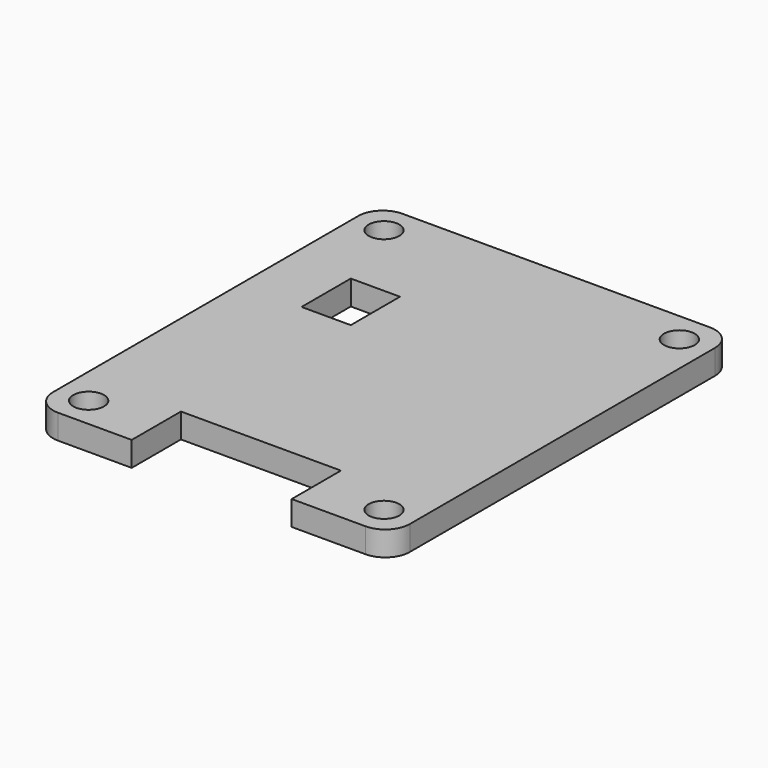
from build123d import *

# Parameters (mm, degrees)
F0_R     = 1.25
F1_DEPTH = 2
F2_R     = 2


with BuildPart() as f1:
    # F0 (on Top) → F1 (new body)
    with BuildSketch(Plane.XY):
        Polygon((9.5, 12.5), (9.5, -12.5), (6.5, -12.5), (6.5, -17.5), (14.5, -17.5), (14.5, 17.5), (-14.5, 17.5), (-14.5, -17.5), (-6.5, -17.5), (-6.5, -12.5), (-9.5, -12.5), (-9.5, 3.5), (-9.5, 8.5), (-9.5, 12.5), align=None)
        with Locations((-12, -15)):
            Circle(F0_R, mode=Mode.SUBTRACT)
        with Locations((12, -15)):
            Circle(F0_R, mode=Mode.SUBTRACT)
        with Locations((-12, 15)):
            Circle(F0_R, mode=Mode.SUBTRACT)
        with Locations((12, 15)):
            Circle(F0_R, mode=Mode.SUBTRACT)
        Polygon((6.5, -12.5), (9.5, -12.5), (9.5, 12.5), (-9.5, 12.5), (-9.5, 8.5), (-5.5, 8.5), (-5.5, 3.5), (-9.5, 3.5), (-9.5, -12.5), (-6.5, -12.5), align=None)
    extrude(amount=F1_DEPTH)

    # F2
    f2_edges = [f1.edges().sort_by_distance(p)[0] for p in [
        (-14.5, 17.5, 1),
        (14.5, 17.5, 1),
        (14.5, -17.5, 1),
        (-14.5, -17.5, 1),
    ]]
    fillet(f2_edges, radius=F2_R)


solid = f1.part
